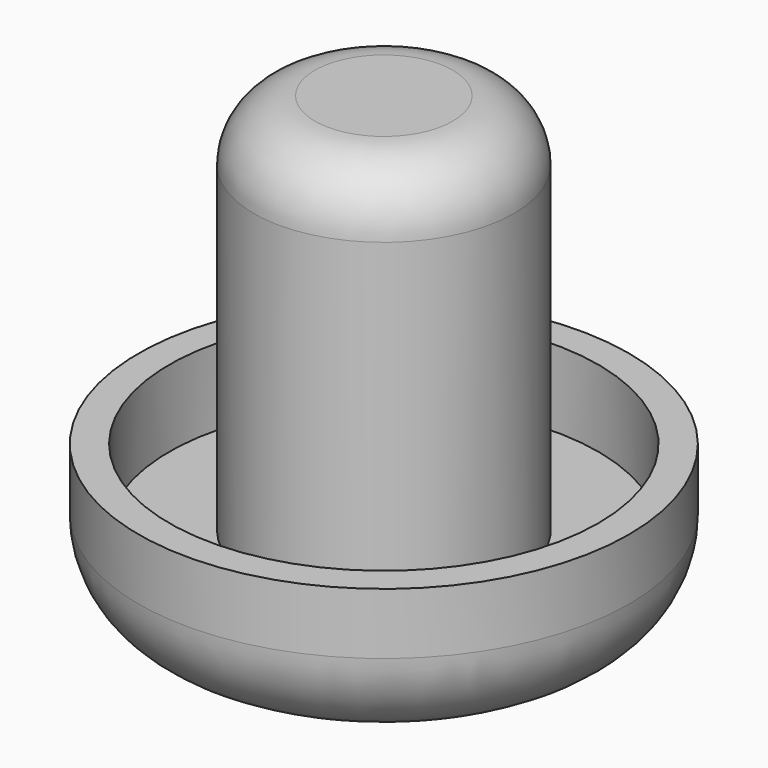
from build123d import *

# Parameters (mm, degrees)
F0_R     = 8.5
F1_DEPTH = 30
F0_R_2   = 14
F2_DEPTH = 5
F0_R_3   = 16
F3_DEPTH = 10
F4_R     = 4
F5_R     = 6


with BuildPart() as f1:
    # F0 (on Top) → F1 (new body)
    with BuildSketch(Plane.XY):
        Circle(F0_R)
    extrude(amount=F1_DEPTH)

    # F0 (on Top) → F2 (join)
    with BuildSketch(Plane.XY):
        Circle(F0_R_2)
        Circle(F0_R, mode=Mode.SUBTRACT)
    extrude(amount=F2_DEPTH)

    # F0 (on Top) → F3 (join)
    with BuildSketch(Plane.XY):
        Circle(F0_R_3)
        Circle(F0_R_2, mode=Mode.SUBTRACT)
    extrude(amount=F3_DEPTH)

    # F4
    f4_edges = [f1.edges().sort_by_distance(p)[0] for p in [
        (-8.5, 0, 30),
    ]]
    fillet(f4_edges, radius=F4_R)

    # F5
    f5_edges = [f1.edges().sort_by_distance(p)[0] for p in [
        (-16, 0, 0),
    ]]
    fillet(f5_edges, radius=F5_R)


solid = f1.part
